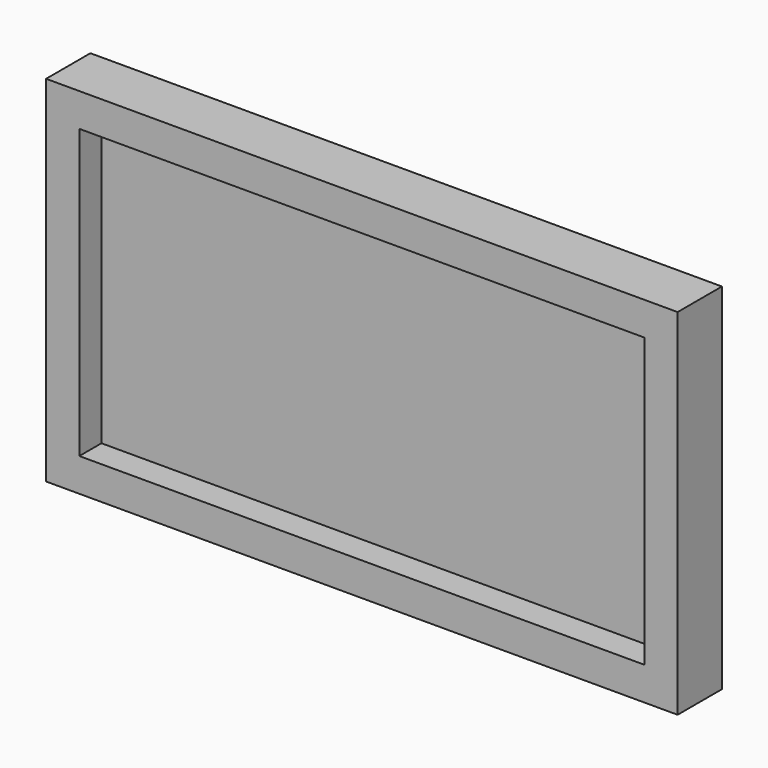
from build123d import *

# Parameters (mm, degrees)
F0_W     = 114
F0_H     = 64
F1_DEPTH = 5
F2_W     = 114
F2_H     = 64
F2_W_2   = 102
F2_H_2   = 52
F3_DEPTH = 5


with BuildPart() as f1:
    # F0 (on Front) → F1 (new body)
    with BuildSketch(Plane.XZ):
        Rectangle(F0_W, F0_H)
    extrude(amount=F1_DEPTH)

    # F2 (on face) → F3 (join)
    with BuildSketch(Plane.XZ.offset(5)):
        Rectangle(F2_W, F2_H)
        Rectangle(F2_W_2, F2_H_2, mode=Mode.SUBTRACT)
    extrude(amount=F3_DEPTH)


solid = f1.part
